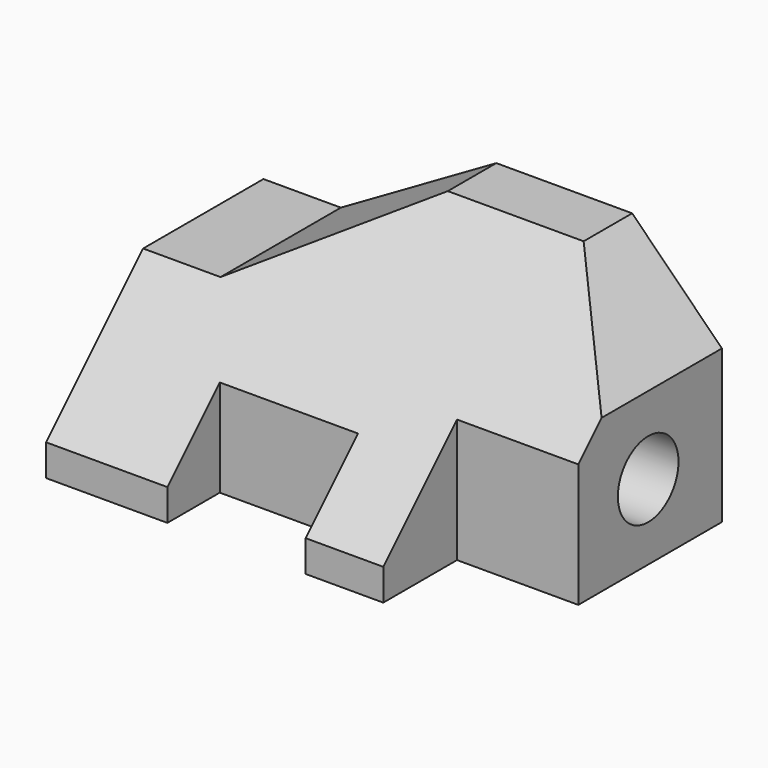
from build123d import *

# Parameters (mm, degrees)
F0_W     = 96.012
F0_H     = 50.8
F1_DEPTH = 56.896
F3_DEPTH = 96.013
F5_DEPTH = 56.897
F6_W     = 28.956
F6_H     = 13.716
F6_W_2   = 25.4
F6_H_2   = 19.304
F7_DEPTH = 50.801
F8_R     = 7.9375
F9_DEPTH = 31.75


with BuildPart() as f1:
    # F0 (on Front) → F1 (new body)
    with BuildSketch(Plane.XZ):
        Rectangle(F0_W, F0_H)
    extrude(amount=F1_DEPTH)

    # F2 (on face) → F3 (cut, through all)
    with BuildSketch(Plane.YZ.offset(48.006)):
        Polygon((-56.896, -18.796), (-12.7, 25.4), (-56.896, 25.4), align=None)
    extrude(amount=-F3_DEPTH, mode=Mode.SUBTRACT)

    # F4 (on face) → F5 (cut, through all)
    with BuildSketch(Plane(origin=(0, 0, 0), x_dir=(-1, 0, 0), z_dir=(0, 1, 0))):
        Polygon((48.006, 25.4), (-0.762, 25.4), (31.793627, 6.604), (48.006, 6.604), align=None)
        Polygon((-29.21, 25.4), (-48.006, 25.4), (-48.006, 6.604), align=None)
    extrude(amount=-F5_DEPTH, mode=Mode.SUBTRACT)

    # F6 (on face) → F7 (cut, through all)
    with BuildSketch(Plane(origin=(0, 0, -25.4), x_dir=(1, 0, 0), z_dir=(0, 0, -1))):
        with Locations((-8.128, 50.038)):
            Rectangle(F6_W, F6_H)
        with Locations((35.306, 47.244)):
            Rectangle(F6_W_2, F6_H_2)
    extrude(amount=-F7_DEPTH, mode=Mode.SUBTRACT)

    # F8 (on face) → F9 (cut)
    with BuildSketch(Plane.YZ.offset(48.006)):
        with Locations((-19.304, -9.652)):
            Circle(F8_R)
    extrude(amount=-F9_DEPTH, mode=Mode.SUBTRACT)


solid = f1.part
